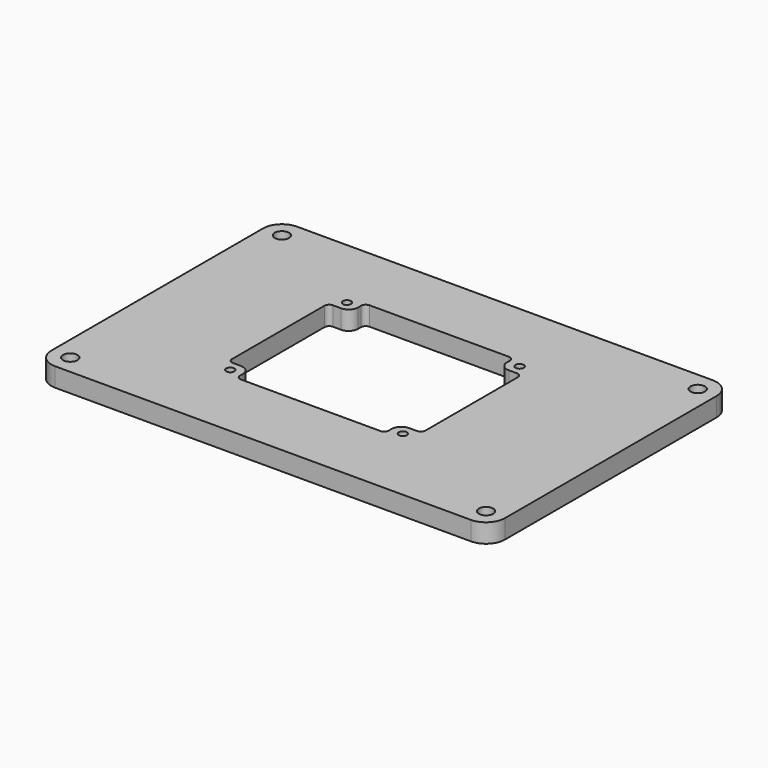
from build123d import *

# Parameters (mm, degrees)
F0_R     = 2.413
F0_R_2   = 1.375
F1_DEPTH = 6.35


with BuildPart() as f1:
    # F0 (on Top) → F1 (new body)
    with BuildSketch(Plane.XY):
        with BuildLine():
            ThreePointArc((-72.523684, -45.244084), (-70.663812, -49.734212), (-66.173684, -51.594084))
            Line((-66.173684, -51.594084), (73.526316, -51.594084))
            ThreePointArc((73.526316, -51.594084), (78.016444, -49.734212), (79.876316, -45.244084))
            Line((79.876316, -45.244084), (79.876316, 43.655916))
            ThreePointArc((79.876316, 43.655916), (78.016444, 48.146044), (73.526316, 50.005916))
            Line((73.526316, 50.005916), (-66.173684, 50.005916))
            ThreePointArc((-66.173684, 50.005916), (-70.663812, 48.146044), (-72.523684, 43.655916))
            Line((-72.523684, 43.655916), (-72.523684, -45.244084))
        make_face()
        with Locations((-66.173684, -45.244084)):
            Circle(F0_R, mode=Mode.SUBTRACT)
        with Locations((-29, -24.5)):
            Circle(F0_R_2, mode=Mode.SUBTRACT)
        with Locations((73.526316, -45.244084)):
            Circle(F0_R, mode=Mode.SUBTRACT)
        with Locations((29, -24.5)):
            Circle(F0_R_2, mode=Mode.SUBTRACT)
        with BuildLine():
            ThreePointArc((-32.5, 19.4125), (-32.035032, 20.535032), (-30.9125, 21))
            Line((-30.9125, 21), (-28.175, 21))
            ThreePointArc((-28.175, 21), (-25.929936, 21.929936), (-25, 24.175))
            Line((-25, 24.175), (-25, 25.4125))
            ThreePointArc((-25, 25.4125), (-24.535032, 26.535032), (-23.4125, 27))
            Line((-23.4125, 27), (23.4125, 27))
            ThreePointArc((23.4125, 27), (24.535032, 26.535032), (25, 25.4125))
            Line((25, 25.4125), (25, 24.175))
            ThreePointArc((25, 24.175), (25.929936, 21.929936), (28.175, 21))
            Line((28.175, 21), (30.9125, 21))
            ThreePointArc((30.9125, 21), (32.035032, 20.535032), (32.5, 19.4125))
            Line((32.5, 19.4125), (32.5, -19.4125))
            ThreePointArc((32.5, -19.4125), (32.035032, -20.535032), (30.9125, -21))
            Line((30.9125, -21), (28.175, -21))
            ThreePointArc((28.175, -21), (25.929936, -21.929936), (25, -24.175))
            Line((25, -24.175), (25, -25.4125))
            ThreePointArc((25, -25.4125), (24.535032, -26.535032), (23.4125, -27))
            Line((23.4125, -27), (-23.4125, -27))
            ThreePointArc((-23.4125, -27), (-24.535032, -26.535032), (-25, -25.4125))
            Line((-25, -25.4125), (-25, -24.175))
            ThreePointArc((-25, -24.175), (-25.929936, -21.929936), (-28.175, -21))
            Line((-28.175, -21), (-30.9125, -21))
            ThreePointArc((-30.9125, -21), (-32.035032, -20.535032), (-32.5, -19.4125))
            Line((-32.5, -19.4125), (-32.5, 19.4125))
        make_face(mode=Mode.SUBTRACT)
        with Locations((-29, 24.5)):
            Circle(F0_R_2, mode=Mode.SUBTRACT)
        with Locations((-66.173684, 43.655916)):
            Circle(F0_R, mode=Mode.SUBTRACT)
        with Locations((29, 24.5)):
            Circle(F0_R_2, mode=Mode.SUBTRACT)
        with Locations((73.526316, 43.655916)):
            Circle(F0_R, mode=Mode.SUBTRACT)
    extrude(amount=F1_DEPTH)


solid = f1.part
